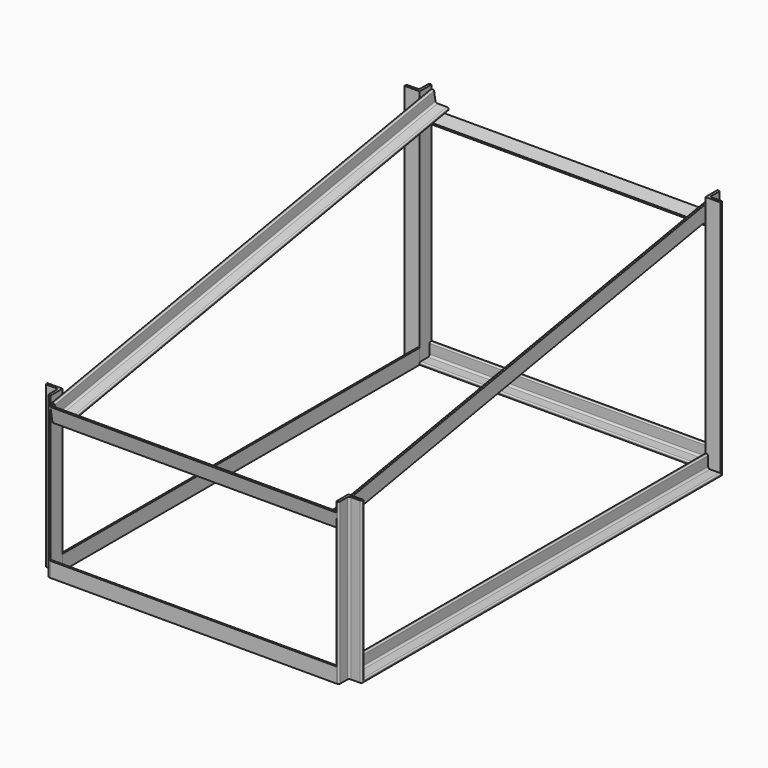
from build123d import *

# Parameters (mm, degrees)
F2_DEPTH       = 406.4
F3_DEPTH       = 609.6
F4_DEPTH       = 361.95
F4_DEPTH_BACK  = 361.95
F6_DEPTH       = 1219.2
F8_DEPTH       = 762.001
F11_DEPTH      = 361.95
F11_DEPTH_BACK = 361.95
F13_DEPTH      = 1130.3


with BuildPart() as f2:
    # F1 (on Top) → F2 (new body)
    with BuildSketch(Plane.XY):
        with BuildLine():
            ThreePointArc((-368.3, 3.175), (-367.3700640303, 0.9299359697), (-365.125, 0))
            Line((-365.125, 0), (-361.95, 0))
            Line((-361.95, 0), (-361.95, 38.1))
            Line((-361.95, 38.1), (-400.05, 38.1))
            Line((-400.05, 38.1), (-400.05, 34.925))
            ThreePointArc((-400.05, 34.925), (-399.1200640303, 32.6799359697), (-396.875, 31.75))
            Line((-396.875, 31.75), (-373.0625, 31.75))
            ThreePointArc((-373.0625, 31.75), (-369.6949039546, 30.3550960454), (-368.3, 26.9875))
            Line((-368.3, 26.9875), (-368.3, 3.175))
        make_face()
    extrude(amount=F2_DEPTH)


with BuildPart() as f2b:
    # F1 (on Top) → F2, piece 2 (new body)
    with BuildSketch(Plane.XY):
        with BuildLine():
            Line((361.95, 38.1), (361.95, 0))
            Line((361.95, 0), (365.125, 0))
            ThreePointArc((365.125, 0), (367.3700640303, 0.9299359697), (368.3, 3.175))
            Line((368.3, 3.175), (368.3, 26.9875))
            ThreePointArc((368.3, 26.9875), (369.6949039546, 30.3550960454), (373.0625, 31.75))
            Line((373.0625, 31.75), (396.875, 31.75))
            ThreePointArc((396.875, 31.75), (399.1200640303, 32.6799359697), (400.05, 34.925))
            Line((400.05, 34.925), (400.05, 38.1))
            Line((400.05, 38.1), (361.95, 38.1))
        make_face()
    extrude(amount=F2_DEPTH)


with BuildPart() as f3:
    # F1 (on Top) → F3 (new body)
    with BuildSketch(Plane.XY):
        with BuildLine():
            Line((-361.95, 1206.5), (-365.125, 1206.5))
            ThreePointArc((-365.125, 1206.5), (-367.3700640303, 1205.5700640303), (-368.3, 1203.325))
            Line((-368.3, 1203.325), (-368.3, 1179.5125))
            ThreePointArc((-368.3, 1179.5125), (-369.6949039546, 1176.1449039546), (-373.0625, 1174.75))
            Line((-373.0625, 1174.75), (-396.875, 1174.75))
            ThreePointArc((-396.875, 1174.75), (-399.1200640303, 1173.8200640303), (-400.05, 1171.575))
            Line((-400.05, 1171.575), (-400.05, 1168.4))
            Line((-400.05, 1168.4), (-361.95, 1168.4))
            Line((-361.95, 1168.4), (-361.95, 1206.5))
        make_face()
    extrude(amount=F3_DEPTH)


with BuildPart() as f3b:
    # F1 (on Top) → F3, piece 2 (new body)
    with BuildSketch(Plane.XY):
        with BuildLine():
            ThreePointArc((368.3, 1203.325), (367.3700640303, 1205.5700640303), (365.125, 1206.5))
            Line((365.125, 1206.5), (361.95, 1206.5))
            Line((361.95, 1206.5), (361.95, 1168.4))
            Line((361.95, 1168.4), (400.05, 1168.4))
            Line((400.05, 1168.4), (400.05, 1171.575))
            ThreePointArc((400.05, 1171.575), (399.1200640303, 1173.8200640303), (396.875, 1174.75))
            Line((396.875, 1174.75), (373.0625, 1174.75))
            ThreePointArc((373.0625, 1174.75), (369.6949039546, 1176.1449039546), (368.3, 1179.5125))
            Line((368.3, 1179.5125), (368.3, 1203.325))
        make_face()
    extrude(amount=F3_DEPTH)


with BuildPart() as f4:
    # F0 (on Right) → F4 (new body, two sides)
    with BuildSketch(Plane.YZ) as f4_sk:
        with BuildLine():
            Line((3.1267646158, 381.5513329641), (0, 381))
            Line((0, 381), (6.6159955691, 343.4788246102))
            Line((6.6159955691, 343.4788246102), (38.1, 349.0303040521))
            Line((38.1, 349.0303040521), (38.1, 355.4782630376))
            Line((38.1, 355.4782630376), (16.4570057963, 351.6620192162))
            ThreePointArc((16.4570057963, 351.6620192162), (12.898348572, 352.450954529), (10.9398594264, 355.5251666938))
            Line((10.9398594264, 355.5251666938), (6.8048621957, 378.9759013124))
            ThreePointArc((6.8048621957, 378.9759013124), (5.4992027653, 381.0253760889), (3.1267646158, 381.5513329641))
        make_face()
        with BuildLine():
            Line((38.1, 355.4782630376), (38.1, 349.0303040521))
            Line((38.1, 349.0303040521), (44.1371709589, 350.0948201793))
            Line((44.1371709589, 350.0948201793), (43.5858379948, 353.2215847952))
            ThreePointArc((43.5858379948, 353.2215847952), (42.2801785644, 355.2710595717), (39.9077404149, 355.7970164469))
            Line((39.9077404149, 355.7970164469), (38.1, 355.4782630376))
        make_face()
    extrude(amount=-F4_DEPTH)
    extrude(f4_sk.sketch, amount=F4_DEPTH_BACK)


with BuildPart() as f4b:
    # F0 (on Right) → F4, piece 2 (new body, two sides)
    with BuildSketch(Plane.YZ) as f4_2_sk:
        with BuildLine():
            Line((1199.8840044309, 560.3321287743), (1168.4, 554.7806493324))
            Line((1168.4, 554.7806493324), (1168.4, 549.9446800933))
            Line((1168.4, 549.9446800933), (1189.7673277217, 553.7123164763))
            ThreePointArc((1189.7673277217, 553.7123164763), (1194.5122040207, 552.6604027259), (1197.1235228815, 548.5614531728))
            Line((1197.1235228815, 548.5614531728), (1201.2585201122, 525.1107185542))
            ThreePointArc((1201.2585201122, 525.1107185542), (1202.5641795426, 523.0612437777), (1204.9366176921, 522.5352869025))
            Line((1204.9366176921, 522.5352869025), (1206.5, 522.8109533845))
            Line((1206.5, 522.8109533845), (1199.8840044309, 560.3321287743))
        make_face()
        with BuildLine():
            Line((1168.4, 554.7806493324), (1162.3628290411, 553.7161332052))
            Line((1162.3628290411, 553.7161332052), (1162.6384955232, 552.1527508973))
            ThreePointArc((1162.6384955232, 552.1527508973), (1163.9441549536, 550.1032761208), (1166.3165931031, 549.5773192456))
            Line((1166.3165931031, 549.5773192456), (1168.4, 549.9446800933))
            Line((1168.4, 549.9446800933), (1168.4, 554.7806493324))
        make_face()
    extrude(amount=-F4_DEPTH)
    extrude(f4_2_sk.sketch, amount=F4_DEPTH_BACK)


with BuildPart() as f6:
    # F5 (on face) → F6 (new body)
    with BuildSketch(Plane(origin=(0, 71.4083665352, 12.5912216685), x_dir=(-1, 0, 0), z_dir=(0, 0.984807753, 0.1736481777))):
        with BuildLine():
            Line((-358.775, 381.5617538977), (-361.95, 381.5617538977))
            Line((-361.95, 381.5617538977), (-361.95, 343.4617538977))
            Line((-361.95, 343.4617538977), (-323.85, 343.4617538977))
            Line((-323.85, 343.4617538977), (-323.85, 346.6367538977))
            ThreePointArc((-323.85, 346.6367538977), (-324.7799359697, 348.8818179279), (-327.025, 349.8117538977))
            Line((-327.025, 349.8117538977), (-350.8375, 349.8117538977))
            ThreePointArc((-350.8375, 349.8117538977), (-354.2050960454, 351.2066578523), (-355.6, 354.5742538977))
            Line((-355.6, 354.5742538977), (-355.6, 378.3867538977))
            ThreePointArc((-355.6, 378.3867538977), (-356.5299359697, 380.6318179279), (-358.775, 381.5617538977))
        make_face()
    extrude(amount=F6_DEPTH)

    # F7 (on face) → F8 (cut, through all)
    with BuildSketch(Plane.YZ.offset(361.95)):
        Polygon((10.6641929444, 357.0885490017), (11.7668588726, 350.83501977), (18.0203881042, 351.9376856982), align=None)
    extrude(amount=-F8_DEPTH, mode=Mode.SUBTRACT)


with BuildPart() as f9_1:
    # F9: instance of F6
    add(f6.part.mirror(Plane.YZ))


with BuildPart() as f11:
    # F10 (on Right) → F11 (new body, two sides)
    with BuildSketch(Plane.YZ) as f11_sk:
        with BuildLine():
            Line((3.175, 38.1), (0, 38.1))
            Line((0, 38.1), (0, 0))
            Line((0, 0), (38.1, 0))
            Line((38.1, 0), (38.1, 3.175))
            ThreePointArc((38.1, 3.175), (37.1700640303, 5.4200640303), (34.925, 6.35))
            Line((34.925, 6.35), (11.1125, 6.35))
            ThreePointArc((11.1125, 6.35), (7.7449039546, 7.7449039546), (6.35, 11.1125))
            Line((6.35, 11.1125), (6.35, 34.925))
            ThreePointArc((6.35, 34.925), (5.4200640303, 37.1700640303), (3.175, 38.1))
        make_face()
    extrude(amount=F11_DEPTH)
    extrude(f11_sk.sketch, amount=-F11_DEPTH_BACK)


with BuildPart() as f11b:
    # F10 (on Right) → F11, piece 2 (new body, two sides)
    with BuildSketch(Plane.YZ) as f11_2_sk:
        with BuildLine():
            Line((1168.4, 3.175), (1168.4, 0))
            Line((1168.4, 0), (1206.5, 0))
            Line((1206.5, 0), (1206.5, 38.1))
            Line((1206.5, 38.1), (1203.325, 38.1))
            ThreePointArc((1203.325, 38.1), (1201.0799359697, 37.1700640303), (1200.15, 34.925))
            Line((1200.15, 34.925), (1200.15, 11.1125))
            ThreePointArc((1200.15, 11.1125), (1198.7550960454, 7.7449039546), (1195.3875, 6.35))
            Line((1195.3875, 6.35), (1171.575, 6.35))
            ThreePointArc((1171.575, 6.35), (1169.3299359697, 5.4200640303), (1168.4, 3.175))
        make_face()
    extrude(amount=F11_DEPTH)
    extrude(f11_2_sk.sketch, amount=-F11_DEPTH_BACK)


with BuildPart() as f13:
    # F12 (on face) → F13 (new body, through all)
    with BuildSketch(Plane.XZ.offset(-1168.4)):
        with BuildLine():
            Line((365.125, 38.1), (361.95, 38.1))
            Line((361.95, 38.1), (361.95, 0))
            Line((361.95, 0), (400.05, 0))
            Line((400.05, 0), (400.05, 3.175))
            ThreePointArc((400.05, 3.175), (399.1200640303, 5.4200640303), (396.875, 6.35))
            Line((396.875, 6.35), (373.0625, 6.35))
            ThreePointArc((373.0625, 6.35), (369.6949039546, 7.7449039546), (368.3, 11.1125))
            Line((368.3, 11.1125), (368.3, 34.925))
            ThreePointArc((368.3, 34.925), (367.3700640303, 37.1700640303), (365.125, 38.1))
        make_face()
    extrude(amount=F13_DEPTH)


with BuildPart() as f13b:
    # F12 (on face) → F13, piece 2 (new body, through all)
    with BuildSketch(Plane.XZ.offset(-1168.4)):
        with BuildLine():
            Line((-400.05, 3.175), (-400.05, 0))
            Line((-400.05, 0), (-361.95, 0))
            Line((-361.95, 0), (-361.95, 38.1))
            Line((-361.95, 38.1), (-365.125, 38.1))
            ThreePointArc((-365.125, 38.1), (-367.3700640303, 37.1700640303), (-368.3, 34.925))
            Line((-368.3, 34.925), (-368.3, 11.1125))
            ThreePointArc((-368.3, 11.1125), (-369.6949039546, 7.7449039546), (-373.0625, 6.35))
            Line((-373.0625, 6.35), (-396.875, 6.35))
            ThreePointArc((-396.875, 6.35), (-399.1200640303, 5.4200640303), (-400.05, 3.175))
        make_face()
    extrude(amount=F13_DEPTH)


solid = Compound([f2.part, f2b.part, f3.part, f3b.part, f4.part, f4b.part, f6.part, f9_1.part, f11.part, f11b.part, f13.part, f13b.part])
